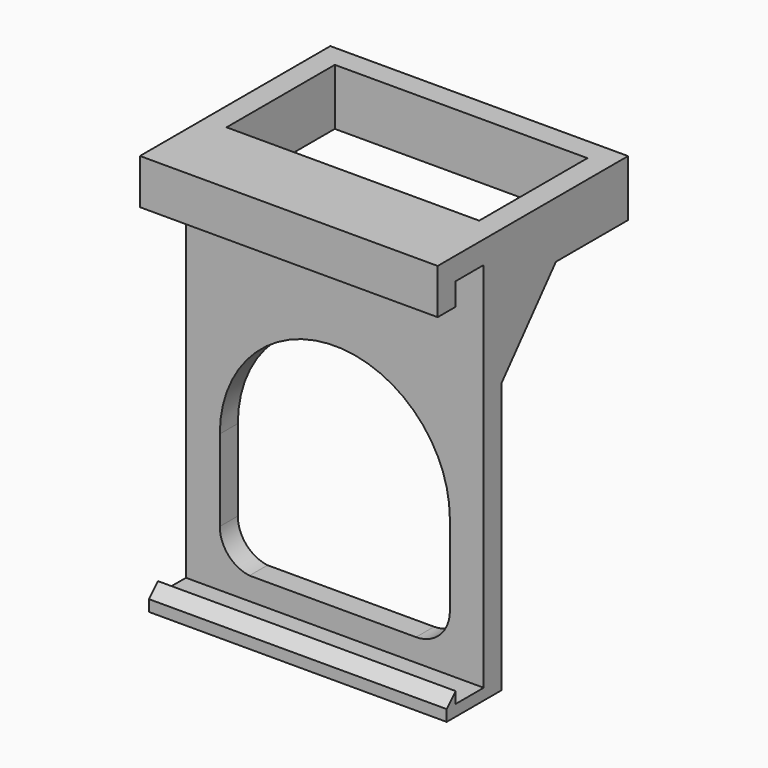
from build123d import *

# Parameters (mm, degrees)
F0_W       = 26.4
F0_H       = 16
F0_W_2     = 22.4
F0_H_2     = 12
F1_DEPTH   = 5
F3_DEPTH   = 32
F4_W       = 26.4
F4_H       = 2
F5_DEPTH   = 5.1
F6_W       = 26.4
F6_H       = 2
F7_DEPTH   = 2
F8_W       = 26.4
F8_H       = 2
F9_DEPTH   = 1
F11_DEPTH  = 26.401
F13_DEPTH  = 2
F14_DEPTH  = 26.4
F14_FACE_W = 22.4
F14_FACE_H = 6
F15_DEPTH  = 31.001
F16_DEPTH  = 25


with BuildPart() as f1:
    # F0 (on Top) → F1 (new body)
    with BuildSketch(Plane.XY):
        Rectangle(F0_W, F0_H)
        Rectangle(F0_W_2, F0_H_2, mode=Mode.SUBTRACT)
    extrude(amount=F1_DEPTH)

    # F2 (on face) → F3 (join)
    with BuildSketch(Plane(origin=(0, 0, 0), x_dir=(1, 0, 0), z_dir=(0, 0, -1))):
        Polygon((13.2, 8), (-13.2, 8), (-13.2, 6), (-11.2, 6), (11.2, 6), (13.2, 6), align=None)
    extrude(amount=F3_DEPTH)

    # F4 (on face) → F5 (join)
    with BuildSketch(Plane.XZ.offset(8)):
        with Locations((0, 4)):
            Rectangle(F4_W, F4_H)
        with Locations((0, -31)):
            Rectangle(F4_W, F4_H)
    extrude(amount=F5_DEPTH)

    # F6 (on face) → F7 (join)
    with BuildSketch(Plane(origin=(0, 0, 3), x_dir=(1, 0, 0), z_dir=(0, 0, -1))):
        with Locations((0, 12.1)):
            Rectangle(F6_W, F6_H)
    extrude(amount=F7_DEPTH)

    # F8 (on face) → F9 (join)
    with BuildSketch(Plane.XY.offset(-30)):
        with Locations((0, -12.1)):
            Rectangle(F8_W, F8_H)
    extrude(amount=F9_DEPTH)

    # F10 (on face) → F11 (cut, through all)
    with BuildSketch(Plane(origin=(-13.2, 0, 0), x_dir=(0, -1, 0), z_dir=(-1, 0, 0))):
        Polygon((11.1, -29), (12.1, -30), (12.1, -31), (6, -31), (6, -32), (13.1, -32), (13.1, -29), align=None)
    extrude(amount=-F11_DEPTH, mode=Mode.SUBTRACT)

    # F12 (on face) → F13 (join, through all)
    with BuildSketch(Plane(origin=(-13.2, 0, 0), x_dir=(0, -1, 0), z_dir=(-1, 0, 0))):
        Polygon((0, 0), (6, 0), (6, -7), (6, -31), (12.1, -31), (12.1, -30), (11.1, -29), (11.1, -30), (8, -30), (8, 3), (11.1, 3), (11.1, 1), (13.1, 1), (13.1, 5), (-8, 5), (-8, 0), align=None)
    extrude(amount=-F13_DEPTH)

    # F12 (on face) → F14 (join, through all)
    with BuildSketch(Plane(origin=(-13.2, 0, 0), x_dir=(0, -1, 0), z_dir=(-1, 0, 0))):
        Polygon((6, -7), (6, 0), (0, 0), align=None)
    extrude(amount=-F14_DEPTH)

    # F14_face (on face) → F15 (cut, through all)
    with BuildSketch(Plane(origin=(0, -3, 0), x_dir=(1, 0, 0), z_dir=(0, 0, 1))):
        Rectangle(F14_FACE_W, F14_FACE_H)
    extrude(amount=-F15_DEPTH, mode=Mode.SUBTRACT)

    # F4 (on face) → F16 (cut)
    with BuildSketch(Plane.XZ.offset(8)):
        with BuildLine():
            ThreePointArc((-10.2, -25.023081), (-9.448807, -27.008746), (-7.571423, -28))
            Line((-7.571423, -28), (7.2, -28))
            ThreePointArc((7.2, -28), (9.32132, -27.12132), (10.2, -25))
            Line((10.2, -25), (10.2, -17.8))
            ThreePointArc((10.2, -17.8), (0, -7.6), (-10.2, -17.8))
            Line((-10.2, -17.8), (-10.2, -25.023081))
        make_face()
    extrude(amount=-F16_DEPTH, mode=Mode.SUBTRACT)


solid = f1.part
